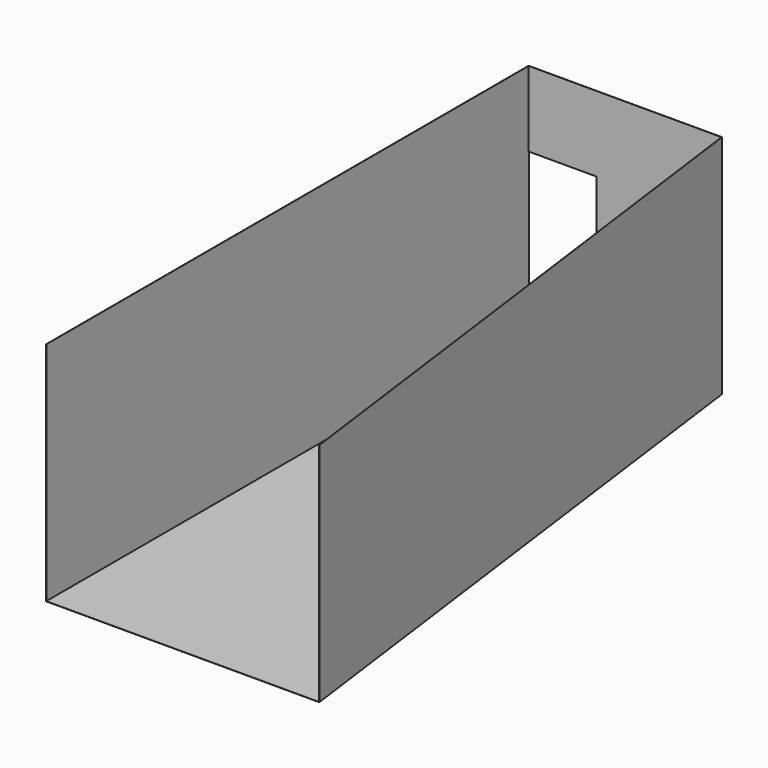
from build123d import *

# Parameters (mm, degrees)
F1_DEPTH = 3000
F2_T     = 2.5
F3_W     = 900
F3_H     = 2000
F4_DEPTH = 25


with BuildPart() as f1:
    # F0 (on Top) → F1 (new body)
    with BuildSketch(Plane.XY):
        Polygon((0, 8000), (0, 0), (3620, 0), (2560, 8000), align=None)
    extrude(amount=F1_DEPTH)

    # F2
    f2_openings = [f1.faces().sort_by_distance(p)[0] for p in [
        (1560.151025, 3771.305286, 3000),
        (1810, 0, 1500),
    ]]
    offset(amount=F2_T, openings=f2_openings, kind=Kind.INTERSECTION)

    # F3 (on face) → F4 (cut)
    with BuildSketch(Plane.XZ.offset(-8000)):
        with Locations((450, 1000)):
            Rectangle(F3_W, F3_H)
    extrude(amount=-F4_DEPTH, mode=Mode.SUBTRACT)


solid = f1.part
